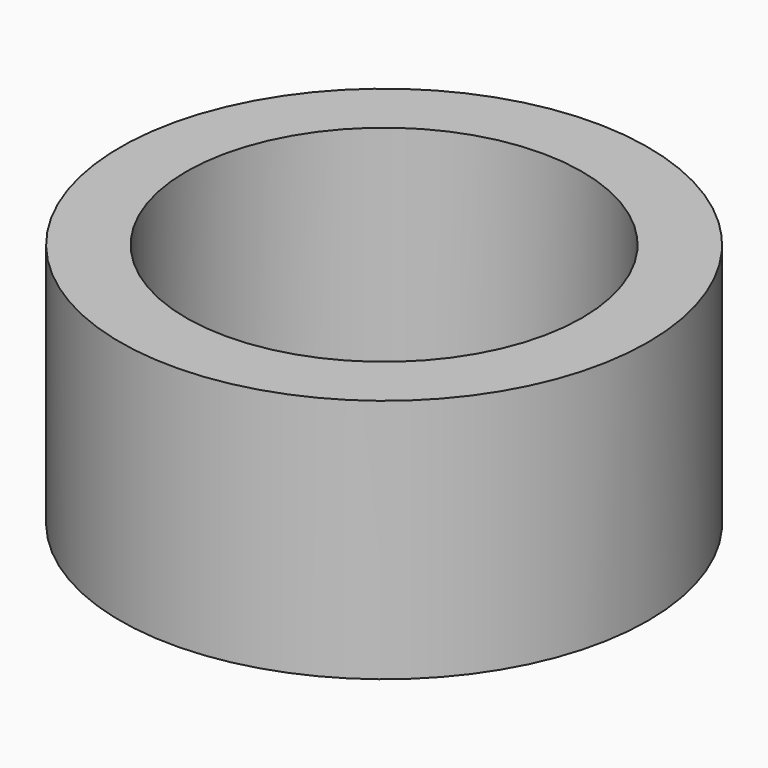
from build123d import *

# Parameters (mm, degrees)
CYLINDER012_R     = 10.5
CYLINDER012_DEPTH = 13
CYLINDER011_R     = 14
CYLINDER011_DEPTH = 13


with BuildPart() as cylinder012:
    # Cylinder012 → Cylinder012 (new body)
    with BuildSketch(Plane.XY.offset(-6)):
        Circle(CYLINDER012_R)
    extrude(amount=CYLINDER012_DEPTH)


with BuildPart() as cut:
    # Cylinder011 → Cylinder011 (new body)
    with BuildSketch(Plane.XY.offset(-6)):
        Circle(CYLINDER011_R)
    extrude(amount=CYLINDER011_DEPTH)

    # Cut: cut Cylinder012
    add(cylinder012.part, mode=Mode.SUBTRACT)


solid = cut.part
